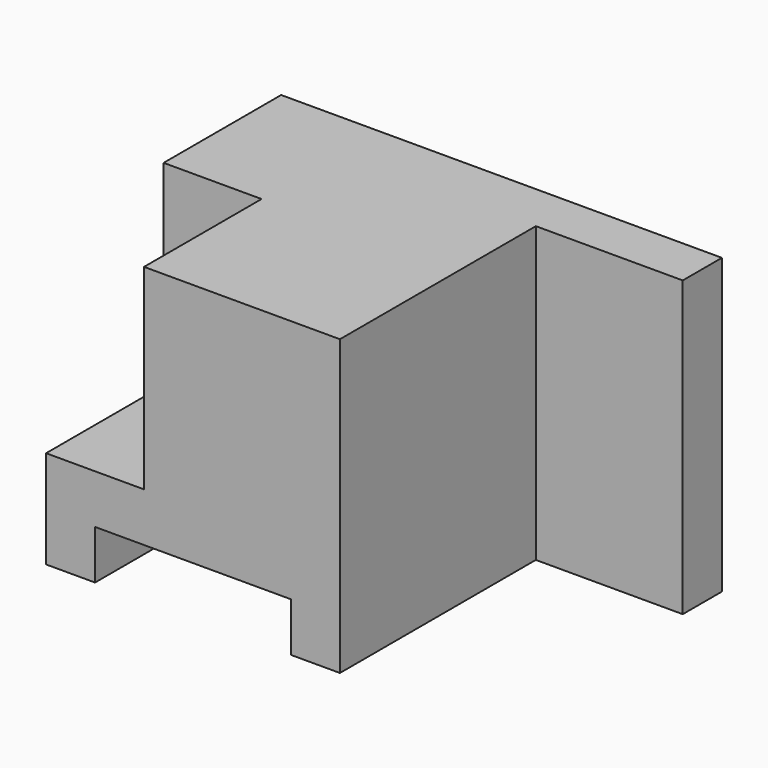
from build123d import *

# Parameters (mm, degrees)
F0_W     = 90
F0_H     = 60
F1_DEPTH = 60
F2_W     = 30
F2_H     = 50
F3_DEPTH = 60
F4_W     = 20
F4_H     = 30
F5_DEPTH = 40
F6_W     = 40
F6_H     = 60
F7_DEPTH = 10


with BuildPart() as f1:
    # F0 (on Front) → F1 (new body)
    with BuildSketch(Plane.XZ):
        with Locations((1.492965, 2.321374)):
            Rectangle(F0_W, F0_H)
    extrude(amount=F1_DEPTH)

    # F2 (on face) → F3 (cut)
    with BuildSketch(Plane.XY.offset(32.321374)):
        with Locations((31.492965, -35)):
            Rectangle(F2_W, F2_H)
    extrude(amount=-F3_DEPTH, mode=Mode.SUBTRACT)

    # F4 (on face) → F5 (cut)
    with BuildSketch(Plane.XY.offset(32.321374)):
        with Locations((-33.507035, -45)):
            Rectangle(F4_W, F4_H)
    extrude(amount=-F5_DEPTH, mode=Mode.SUBTRACT)

    # F6 (on face) → F7 (cut)
    with BuildSketch(Plane(origin=(0, 0, -27.678626), x_dir=(1, 0, 0), z_dir=(0, 0, -1))):
        with Locations((-13.507035, 30)):
            Rectangle(F6_W, F6_H)
    extrude(amount=-F7_DEPTH, mode=Mode.SUBTRACT)


solid = f1.part
